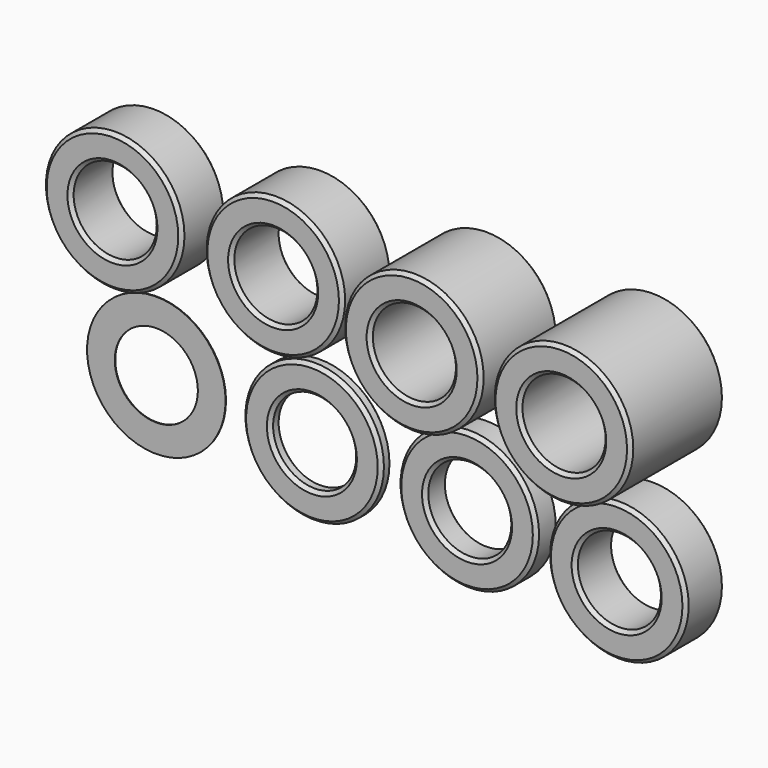
from build123d import *

# Parameters (mm, degrees)
F0_R      = 31.75
F0_R_2    = 19.05
F1_DEPTH  = 0.254
F2_DEPTH  = 6.35
F3_DEPTH  = 12.7
F4_DEPTH  = 22.225
F5_DEPTH  = 25.4
F6_DEPTH  = 28.575
F7_DEPTH  = 44.45
F8_DEPTH  = 53.975
F9_SIZE   = 1.5875
F9_2_SIZE = 1.5875
F9_3_SIZE = 1.5875
F9_4_SIZE = 1.5875
F9_5_SIZE = 1.5875
F9_6_SIZE = 1.5875
F9_7_SIZE = 1.5875


with BuildPart() as f1:
    # F0 (on Front) → F1 (new body)
    with BuildSketch(Plane.XZ):
        Circle(F0_R)
        Circle(F0_R_2, mode=Mode.SUBTRACT)
    extrude(amount=F1_DEPTH)


with BuildPart() as f2:
    # F0 (on Front) → F2 (new body)
    with BuildSketch(Plane.XZ):
        with Locations((76.2, 0)):
            Circle(F0_R)
        with Locations((76.2, 0)):
            Circle(F0_R_2, mode=Mode.SUBTRACT)
    extrude(amount=F2_DEPTH)

    # F9#7
    f9_7_edges = [f2.edges().sort_by_distance(p)[0] for p in [
        (44.45, -6.35, 0),
        (57.15, -6.35, 0),
        (44.45, 0, 0),
        (57.15, 0, 0),
    ]]
    chamfer(f9_7_edges, length=F9_7_SIZE)


with BuildPart() as f3:
    # F0 (on Front) → F3 (new body)
    with BuildSketch(Plane.XZ):
        with Locations((152.4, 0)):
            Circle(F0_R)
        with Locations((152.4, 0)):
            Circle(F0_R_2, mode=Mode.SUBTRACT)
    extrude(amount=F3_DEPTH)

    # F9#6
    f9_6_edges = [f3.edges().sort_by_distance(p)[0] for p in [
        (120.65, -12.7, 0),
        (133.35, -12.7, 0),
        (120.65, 0, 0),
        (133.35, 0, 0),
    ]]
    chamfer(f9_6_edges, length=F9_6_SIZE)


with BuildPart() as f4:
    # F0 (on Front) → F4 (new body)
    with BuildSketch(Plane.XZ):
        with Locations((228.6, 0)):
            Circle(F0_R)
        with Locations((228.6, 0)):
            Circle(F0_R_2, mode=Mode.SUBTRACT)
    extrude(amount=F4_DEPTH)

    # F9#5
    f9_5_edges = [f4.edges().sort_by_distance(p)[0] for p in [
        (196.85, -22.225, 0),
        (209.55, -22.225, 0),
        (196.85, 0, 0),
        (209.55, 0, 0),
    ]]
    chamfer(f9_5_edges, length=F9_5_SIZE)


with BuildPart() as f5:
    # F0 (on Front) → F5 (new body)
    with BuildSketch(Plane.XZ):
        with Locations((0, 76.2)):
            Circle(F0_R)
        with Locations((0, 76.2)):
            Circle(F0_R_2, mode=Mode.SUBTRACT)
    extrude(amount=F5_DEPTH)

    # F9
    f9_edges = [f5.edges().sort_by_distance(p)[0] for p in [
        (-31.75, -25.4, 76.2),
        (-19.05, -25.4, 76.2),
        (-31.75, 0, 76.2),
        (-19.05, 0, 76.2),
    ]]
    chamfer(f9_edges, length=F9_SIZE)


with BuildPart() as f6:
    # F0 (on Front) → F6 (new body)
    with BuildSketch(Plane.XZ):
        with Locations((76.2, 76.2)):
            Circle(F0_R)
        with Locations((76.2, 76.2)):
            Circle(F0_R_2, mode=Mode.SUBTRACT)
    extrude(amount=F6_DEPTH)

    # F9#2
    f9_2_edges = [f6.edges().sort_by_distance(p)[0] for p in [
        (44.45, -28.575, 76.2),
        (57.15, -28.575, 76.2),
        (44.45, 0, 76.2),
        (57.15, 0, 76.2),
    ]]
    chamfer(f9_2_edges, length=F9_2_SIZE)


with BuildPart() as f7:
    # F0 (on Front) → F7 (new body)
    with BuildSketch(Plane.XZ):
        with Locations((152.4, 76.2)):
            Circle(F0_R)
        with Locations((152.4, 76.2)):
            Circle(F0_R_2, mode=Mode.SUBTRACT)
    extrude(amount=F7_DEPTH)

    # F9#3
    f9_3_edges = [f7.edges().sort_by_distance(p)[0] for p in [
        (120.65, -44.45, 76.2),
        (133.35, -44.45, 76.2),
        (120.65, 0, 76.2),
        (133.35, 0, 76.2),
    ]]
    chamfer(f9_3_edges, length=F9_3_SIZE)


with BuildPart() as f8:
    # F0 (on Front) → F8 (new body)
    with BuildSketch(Plane.XZ):
        with Locations((228.6, 76.2)):
            Circle(F0_R)
        with Locations((228.6, 76.2)):
            Circle(F0_R_2, mode=Mode.SUBTRACT)
    extrude(amount=F8_DEPTH)

    # F9#4
    f9_4_edges = [f8.edges().sort_by_distance(p)[0] for p in [
        (196.85, -53.975, 76.2),
        (209.55, -53.975, 76.2),
        (196.85, 0, 76.2),
        (209.55, 0, 76.2),
    ]]
    chamfer(f9_4_edges, length=F9_4_SIZE)


solid = Compound([f1.part, f2.part, f3.part, f4.part, f5.part, f6.part, f7.part, f8.part])
